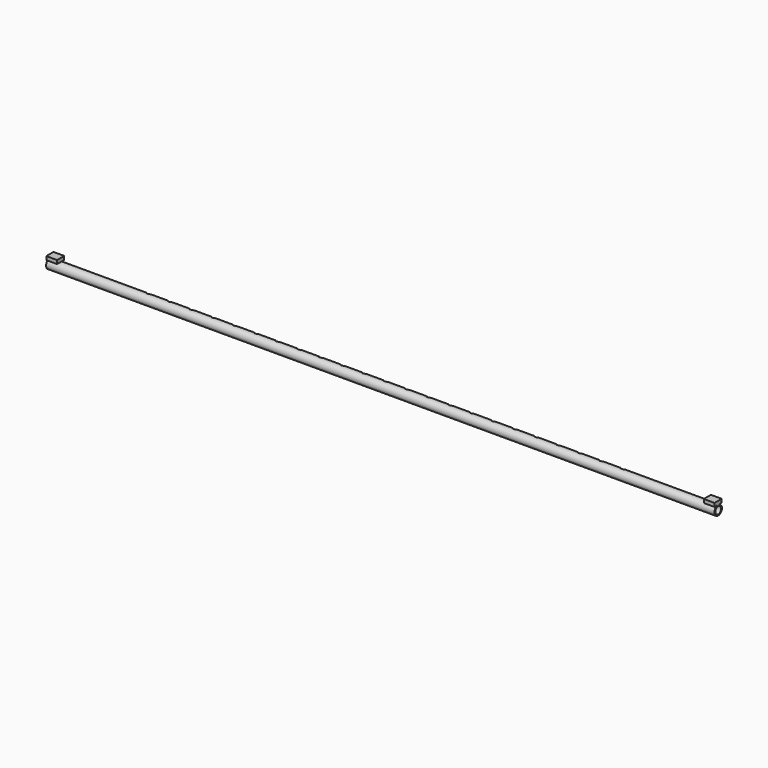
from build123d import *

# Parameters (mm, degrees)
F0_R      = 16.7005
F0_R_2    = 12.7
F1_DEPTH  = 1181.1
F4_D      = 20.574
F4_DEPTH  = 12.7
F6_ANGLE  = 135
F7_W      = 31.75
F7_H      = 12.7
F8_DEPTH  = 38.1
F10_ANGLE = 180


with BuildPart() as f1:
    # F0 (on Right) → F1 (new body, symmetric)
    with BuildSketch(Plane.YZ):
        Circle(F0_R)
        Circle(F0_R_2, mode=Mode.SUBTRACT)
    extrude(amount=F1_DEPTH, both=True)

    # F4
    with Locations(Plane.XY.offset(16.7005)):
        with Locations((-838.2, 0), (-762, 0), (-685.8, 0), (-609.6, 0), (-533.4, 0), (-457.2, 0), (-381, 0), (-304.8, 0), (-228.6, 0), (-152.4, 0), (-76.2, 0), (0, 0), (76.2, 0), (152.4, 0), (228.6, 0), (304.8, 0), (381, 0), (457.2, 0), (533.4, 0), (609.6, 0), (685.8, 0), (762, 0), (838.2, 0)):
            Hole(F4_D / 2, depth=F4_DEPTH)


with BuildPart() as f1_1:
    # F6: moved
    add(f1.part.rotate(Axis((-47.887146, 0, 0), (1, 0, 0)), F6_ANGLE))


with BuildPart() as f8:
    # F7 (on face) → F8 (new body)
    with BuildSketch(Plane.YZ.offset(1181.1)):
        with Locations((0, 23.0505)):
            Rectangle(F7_W, F7_H)
    extrude(amount=-F8_DEPTH)


with BuildPart() as f9_1:
    # F9: instance of F8
    add(f8.part.mirror(Plane.YZ))


with BuildPart() as f1_2:
    # F10: moved
    add(f1_1.part.rotate(Axis((-47.887146, 0, 0), (1, 0, 0)), F10_ANGLE))


solid = Compound([f8.part, f9_1.part, f1_2.part])
